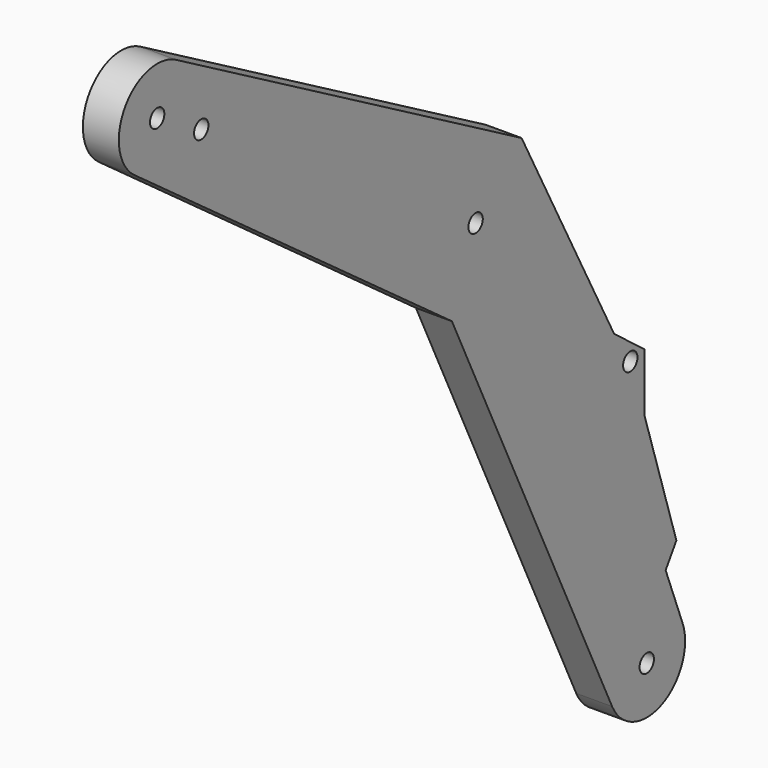
from build123d import *

# Parameters (mm, degrees)
F2_R     = 4.7625
F3_DEPTH = 19.05


with BuildPart() as f3:
    # F2 (on Right) → F3 (new body)
    with BuildSketch(Plane.YZ):
        with BuildLine():
            ThreePointArc((-1024.607466, 699.474183), (-1058.459537, 691.137771), (-1052.101189, 656.859061))
            Line((-1052.101189, 656.859061), (-841.879547, 503.255308))
            Line((-841.879547, 503.255308), (-735.705726, 280.30051))
            ThreePointArc((-735.705726, 280.30051), (-702.74925, 267.882869), (-689.064049, 300.333483))
            Line((-689.064049, 300.333483), (-700.258076, 329.45928))
            Line((-700.258076, 329.45928), (-693.145152, 340.503097))
            Line((-693.145152, 340.503097), (-714.197453, 407.111138))
            Line((-714.197453, 407.111138), (-714.197453, 438.202467))
            Line((-714.197453, 438.202467), (-734.424889, 453.702241))
            Line((-734.424889, 453.702241), (-795.707226, 569.954991))
            Line((-795.707226, 569.954991), (-1024.607466, 699.474183))
        make_face()
        with Locations((-712.773263, 291.221231)):
            Circle(F2_R, mode=Mode.SUBTRACT)
        with Locations((-723.694212, 436.423379)):
            Circle(F2_R, mode=Mode.SUBTRACT)
        with Locations((-1037.116024, 677.367714)):
            Circle(F2_R, mode=Mode.SUBTRACT)
        with Locations((-1007.925361, 660.266367)):
            Circle(F2_R, mode=Mode.SUBTRACT)
        with Locations((-826.159707, 542.639145)):
            Circle(F2_R, mode=Mode.SUBTRACT)
    extrude(amount=F3_DEPTH)


solid = f3.part
